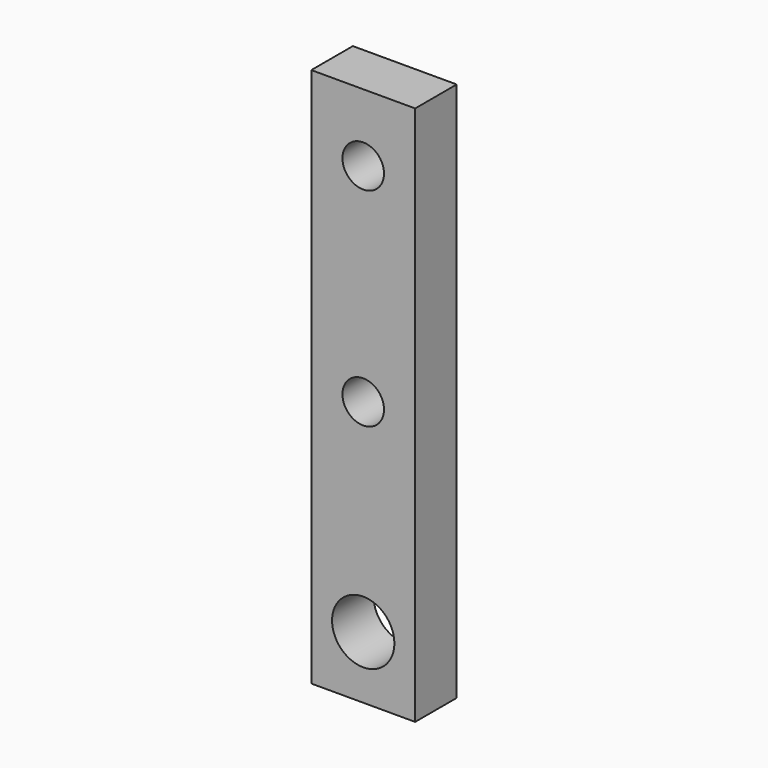
from build123d import *

# Parameters (mm, degrees)
F0_R     = 3
F0_R_2   = 2
F1_DEPTH = 5


with BuildPart() as f1:
    # F0 (on Front) → F1 (new body)
    with BuildSketch(Plane.XZ):
        Polygon((-5, -6), (5, -6), (5, 6), (5, 46), (-5, 46), (-5, 6), align=None)
        Circle(F0_R, mode=Mode.SUBTRACT)
        with Locations((0, 19.5)):
            Circle(F0_R_2, mode=Mode.SUBTRACT)
        with Locations((0, 39.5)):
            Circle(F0_R_2, mode=Mode.SUBTRACT)
    extrude(amount=F1_DEPTH)


solid = f1.part
